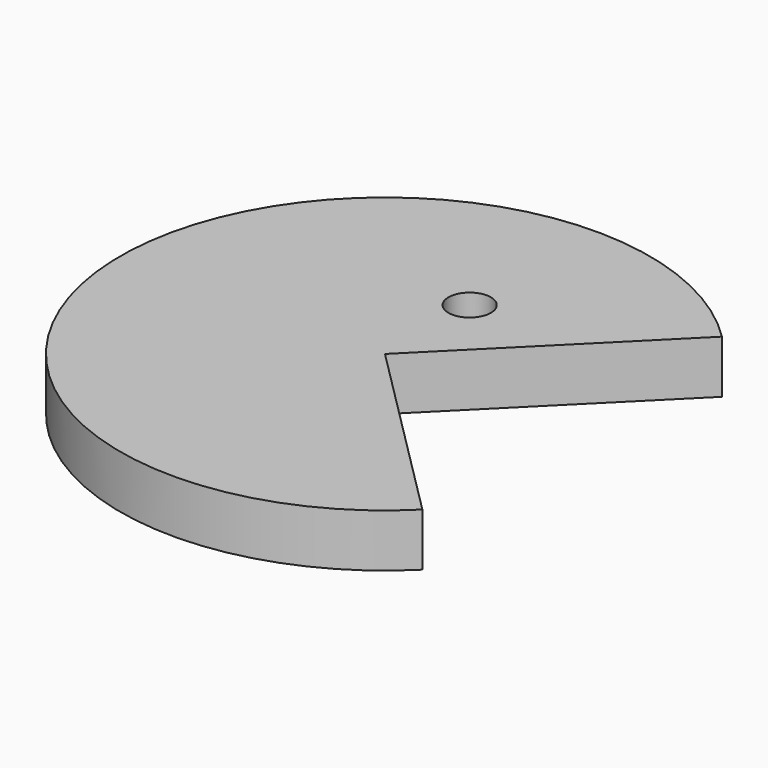
from build123d import *

# Parameters (mm, degrees)
CYLINDER001_R            = 2
CYLINDER001_DEPTH        = 10
CYLINDER_W               = 25
CYLINDER_H               = 5
CYLINDER_ANGLE           = 270
CYLINDER_PLACEMENT_ANGLE = 45


with BuildPart() as cilindre001:
    # Cylinder001 → Cylinder001 (new body)
    with BuildSketch(Plane(origin=(0, 10, 0), x_dir=(1, 0, 0), z_dir=(0, 0, 1))):
        Circle(CYLINDER001_R)
    extrude(amount=CYLINDER001_DEPTH)


with BuildPart() as cut:
    # Cylinder → Cylinder (revolve)
    with BuildSketch(Plane.XZ):
        with Locations((12.5, 2.5)):
            Rectangle(CYLINDER_W, CYLINDER_H)
    revolve(axis=Axis((0, 0, 0), (0, 0, 1)), revolution_arc=CYLINDER_ANGLE)


with BuildPart() as cut_1:
    # Cylinder placement: moved
    add(cut.part.rotate(Axis((0, 0, 0), (0, 0, 1)), CYLINDER_PLACEMENT_ANGLE))

    # Cut: cut Cilindre001
    add(cilindre001.part, mode=Mode.SUBTRACT)


solid = cut_1.part
